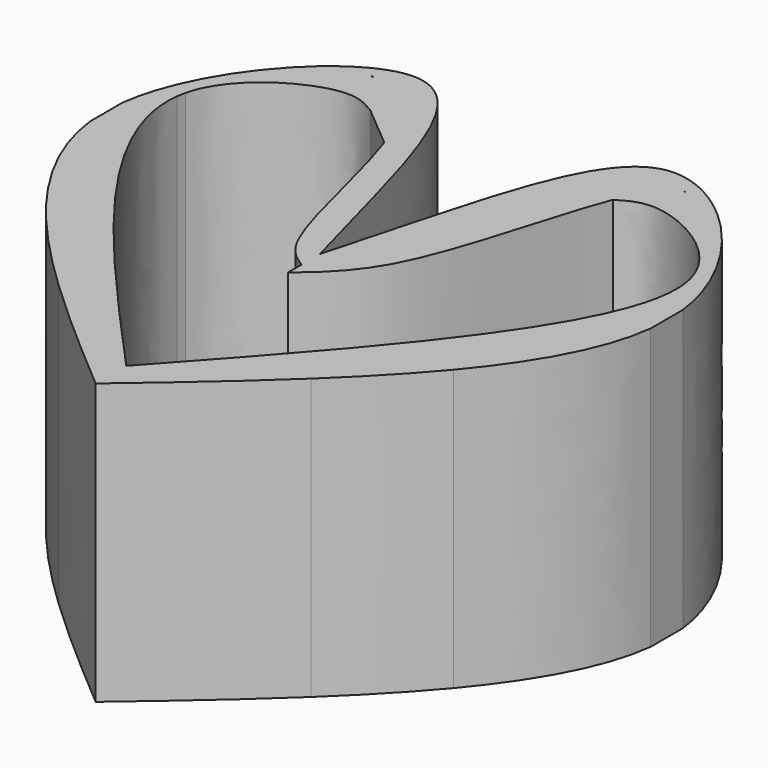
from build123d import *

# Parameters (mm, degrees)
F1_DEPTH = 9
F2_DEPTH = 9


with BuildPart() as f1:
    # F0 (on Top) → F1 (new body)
    with BuildSketch(Plane.XY):
        with BuildLine():
            Line((0, -0.7413188443), (0, 0))
            add(Edge.make_bspline(
                [(0, 0), (-1.3695573068, 4.8905538115), (-2.0943165887, 8.9170896379), (-4.1255794242, 9)],
                knots=[0, 0, 0, 0, 0.3214605719, 0.3214605719, 0.3214605719, 0.3214605719], degree=3))
            Line((-4.1255794242, 9), (-4.2564818249, 9))
            add(Edge.make_bspline(
                [(-4.2564818249, 9), (-6.0240025483, 8.9302818998), (-8.6524833172, 6.0954684063), (-9, 3.3264504746)],
                knots=[0.3282756179, 0.3282756179, 0.3282756179, 0.3282756179, 0.6008737875, 0.6008737875, 0.6008737875, 0.6008737875], degree=3))
            Line((-9, 3.3264504746), (-9, 2.0254198861))
            add(Edge.make_bspline(
                [(-9, 2.0254198861), (-8.8027461578, 0.4124014883), (-7.8936230463, -1.1881125431), (-6.5381361873, -2.8137259055)],
                knots=[0.643703554, 0.643703554, 0.643703554, 0.643703554, 0.8034248169, 0.8034248169, 0.8034248169, 0.8034248169], degree=3))
            add(Edge.make_bspline(
                [(-7.0166951045, 7.2174789384), (-7.8491774617, 6.3542855977), (-9.3849521871, 3.9558156461), (-8.6108826872, 0.0318026512), (-6.9725173385, -2.272586495), (-6.5381361873, -2.8137259055)],
                knots=[0.4449683799, 0.4449683799, 0.4449683799, 0.4449683799, 0.5659455054, 0.7097029057, 0.7555145045, 0.7555145045, 0.7555145045, 0.7555145045], degree=3))
            add(Edge.make_bspline(
                [(-5.09737432, 8.3675803617), (-5.6442828481, 8.4181907516), (-6.369925564, 7.8881083584), (-7.0166951045, 7.2174789384)],
                knots=[0.3509792171, 0.3509792171, 0.3509792171, 0.3509792171, 0.4449683799, 0.4449683799, 0.4449683799, 0.4449683799], degree=3))
            add(Edge.make_bspline(
                [(-4.9200605163, 8.3289773014), (-4.9770953319, 8.3489564565), (-5.0361135483, 8.3619113487), (-5.09737432, 8.3675803617)],
                knots=[0.340451225, 0.340451225, 0.340451225, 0.340451225, 0.3509792171, 0.3509792171, 0.3509792171, 0.3509792171], degree=3))
            add(Edge.make_bspline(
                [(-4.9200605163, 8.3289773014), (-4.4286259103, 8.2194748549), (-3.4589288417, 7.9403428532), (-2.8035900144, 6.5506876616), (-2.5205168272, 5.7354818302)],
                knots=[0.0219652467, 0.0219652467, 0.0219652467, 0.0219652467, 0.2048477067, 0.3890772859, 0.3890772859, 0.3890772859, 0.3890772859], degree=3))
            add(Edge.make_bspline(
                [(-2.5205168272, 5.7354818302), (-2.3111984159, 5.1326780419), (-1.7039003011, 2.9337634373), (-1.0482096873, -0.0435395693), (-0.2666692877, -0.5638009877), (0, -0.7413188443)],
                knots=[0.3890772859, 0.3890772859, 0.3890772859, 0.3890772859, 0.5253058113, 0.8380297251, 1, 1, 1, 1], degree=3))
        make_face()
        with BuildLine():
            add(Edge.make_bspline(
                [(-3.8956142962, 6.891802419), (-3.4381051858, 6.5060647515), (-2.9780259376, 6.1212194977), (-2.5205168272, 5.7354818302)],
                knots=[0, 0, 0, 0, 1.796655324, 1.796655324, 1.796655324, 1.796655324], degree=3))
            add(Edge.make_bspline(
                [(-4.9200605163, 8.3289773014), (-4.4286259103, 8.2194748549), (-3.4589288417, 7.9403428532), (-2.8035900144, 6.5506876616), (-2.5205168272, 5.7354818302)],
                knots=[0.0219652467, 0.0219652467, 0.0219652467, 0.0219652467, 0.2048477067, 0.3890772859, 0.3890772859, 0.3890772859, 0.3890772859], degree=3))
            add(Edge.make_bspline(
                [(-3.8956142962, 6.891802419), (-4.1987079785, 7.6723908012), (-4.5074935852, 8.1844561238), (-4.9200605163, 8.3289773014)],
                knots=[0.2642959622, 0.2642959622, 0.2642959622, 0.2642959622, 0.340451225, 0.340451225, 0.340451225, 0.340451225], degree=3))
        make_face()
        with BuildLine():
            add(Edge.make_bspline(
                [(-3.8956142962, 6.891802419), (-4.2213452753, 7.0869586014), (-5.1237543979, 7.6276218222), (-7.7497584624, 6.1743324677), (-8.0986041576, 4.7228783369)],
                knots=[0, 0, 0, 0, 0.1605538932, 0.4448005452, 0.4448005452, 0.4448005452, 0.4448005452], degree=3))
            add(Edge.make_bspline(
                [(-3.8956142962, 6.891802419), (-4.1987079785, 7.6723908012), (-4.5074935852, 8.1844561238), (-4.9200605163, 8.3289773014)],
                knots=[0.2642959622, 0.2642959622, 0.2642959622, 0.2642959622, 0.340451225, 0.340451225, 0.340451225, 0.340451225], degree=3))
            add(Edge.make_bspline(
                [(-5.09737432, 8.3675803617), (-5.0382294946, 8.3548547711), (-4.9790846696, 8.3421291819), (-4.9200605163, 8.3289773014)],
                knots=[0, 0, 0, 0, 0.0219652467, 0.0219652467, 0.0219652467, 0.0219652467], degree=3))
            add(Edge.make_bspline(
                [(-5.09737432, 8.3675803617), (-5.6442828481, 8.4181907516), (-6.369925564, 7.8881083584), (-7.0166951045, 7.2174789384)],
                knots=[0.3509792171, 0.3509792171, 0.3509792171, 0.3509792171, 0.4449683799, 0.4449683799, 0.4449683799, 0.4449683799], degree=3))
            add(Edge.make_bspline(
                [(-7.0166951045, 7.2174789384), (-7.4551353354, 6.468842273), (-7.8935756458, 5.7202055859), (-8.0986041576, 4.7228783369)],
                knots=[0, 0, 0, 0, 0.2568105942, 0.2568105942, 0.2568105942, 0.2568105942], degree=3))
        make_face()
        with BuildLine():
            add(Edge.make_bspline(
                [(-6.5381361873, -2.8137259055), (-5.8199444715, -3.6750415592), (-4.976444676, -4.5434033696), (-4.0471287706, -5.424404607)],
                knots=[0.8034248169, 0.8034248169, 0.8034248169, 0.8034248169, 0.8880515967, 0.8880515967, 0.8880515967, 0.8880515967], degree=3))
            add(Edge.make_bspline(
                [(-8.1480962796, 4.4487735667), (-8.3487195408, 3.1674182287), (-7.9933424316, -0.4652337496), (-5.465399807, -3.6634353226), (-4.0471287706, -5.424404607)],
                knots=[0.2798373043, 0.2798373043, 0.2798373043, 0.2798373043, 0.5962275969, 0.9861211234, 0.9861211234, 0.9861211234, 0.9861211234], degree=3))
            add(Edge.make_bspline(
                [(-8.0986041689, 4.7228782896), (-8.1200921294, 4.6334725946), (-8.136536481, 4.5420835041), (-8.1480962796, 4.4487735667)],
                knots=[0.4448005483, 0.4448005483, 0.4448005483, 0.4448005483, 0.4623093822, 0.4623093822, 0.4623093822, 0.4623093822], degree=3))
            add(Edge.make_bspline(
                [(-7.0166951045, 7.2174789384), (-7.4551353354, 6.468842273), (-7.8935756458, 5.7202055859), (-8.0986041576, 4.7228783369)],
                knots=[0, 0, 0, 0, 0.2568105942, 0.2568105942, 0.2568105942, 0.2568105942], degree=3))
            add(Edge.make_bspline(
                [(-7.0166951045, 7.2174789384), (-7.8491774617, 6.3542855977), (-9.3849521871, 3.9558156461), (-8.6108826872, 0.0318026512), (-6.9725173385, -2.272586495), (-6.5381361873, -2.8137259055)],
                knots=[0.4449683799, 0.4449683799, 0.4449683799, 0.4449683799, 0.5659455054, 0.7097029057, 0.7555145045, 0.7555145045, 0.7555145045, 0.7555145045], degree=3))
        make_face()
        with BuildLine():
            add(Edge.make_bspline(
                [(-4.0471287706, -5.424404607), (-2.8177846774, -6.5898357171), (-1.4382685717, -7.7773849141), (0, -9)],
                knots=[0.8880515967, 0.8880515967, 0.8880515967, 0.8880515967, 1, 1, 1, 1], degree=3))
            Line((0, -9), (0, -7.7708214521))
            add(Edge.make_bspline(
                [(-8.1480962796, 4.4487735667), (-8.503093949, 1.5832556149), (-4.2515467883, -3.0937826707), (0, -7.7708214521)],
                knots=[0.4623093822, 0.4623093822, 0.4623093822, 0.4623093822, 1, 1, 1, 1], degree=3))
            add(Edge.make_bspline(
                [(-8.1480962796, 4.4487735667), (-8.3487195408, 3.1674182287), (-7.9933424316, -0.4652337496), (-5.465399807, -3.6634353226), (-4.0471287706, -5.424404607)],
                knots=[0.2798373043, 0.2798373043, 0.2798373043, 0.2798373043, 0.5962275969, 0.9861211234, 0.9861211234, 0.9861211234, 0.9861211234], degree=3))
        make_face()
    extrude(amount=F1_DEPTH)

    # F0 (on Top) → F2 (join)
    with BuildSketch(Plane.XY):
        with BuildLine():
            add(Edge.make_bspline(
                [(4.2564818249, 9), (6.0240025483, 8.9302818998), (8.6524833172, 6.0954684063), (9, 3.3264504746)],
                knots=[0.3282756179, 0.3282756179, 0.3282756179, 0.3282756179, 0.6008737875, 0.6008737875, 0.6008737875, 0.6008737875], degree=3))
            Line((4.2564818249, 9), (4.1255794242, 9))
            add(Edge.make_bspline(
                [(0, 0), (1.3695573068, 4.8905538115), (2.0943165887, 8.9170896379), (4.1255794242, 9)],
                knots=[0, 0, 0, 0, 0.3214605719, 0.3214605719, 0.3214605719, 0.3214605719], degree=3))
            Line((0, 0), (0, -0.7413188443))
            add(Edge.make_bspline(
                [(2.5205168272, 5.7354818302), (2.3111984159, 5.1326780419), (1.7039003011, 2.9337634373), (1.0482096873, -0.0435395693), (0.2666692877, -0.5638009877), (0, -0.7413188443)],
                knots=[0.3890772859, 0.3890772859, 0.3890772859, 0.3890772859, 0.5253058113, 0.8380297251, 1, 1, 1, 1], degree=3))
            add(Edge.make_bspline(
                [(4.9200605163, 8.3289773014), (4.4286259103, 8.2194748549), (3.4589288417, 7.9403428532), (2.8035900144, 6.5506876616), (2.5205168272, 5.7354818302)],
                knots=[0.0219652467, 0.0219652467, 0.0219652467, 0.0219652467, 0.2048477067, 0.3890772859, 0.3890772859, 0.3890772859, 0.3890772859], degree=3))
            add(Edge.make_bspline(
                [(4.9200605163, 8.3289773014), (4.9770953319, 8.3489564565), (5.0361135483, 8.3619113487), (5.09737432, 8.3675803617)],
                knots=[0.340451225, 0.340451225, 0.340451225, 0.340451225, 0.3509792171, 0.3509792171, 0.3509792171, 0.3509792171], degree=3))
            add(Edge.make_bspline(
                [(5.09737432, 8.3675803617), (5.6442828481, 8.4181907516), (6.369925564, 7.8881083584), (7.0166951045, 7.2174789384)],
                knots=[0.3509792171, 0.3509792171, 0.3509792171, 0.3509792171, 0.4449683799, 0.4449683799, 0.4449683799, 0.4449683799], degree=3))
            add(Edge.make_bspline(
                [(7.0166951045, 7.2174789384), (7.8491774617, 6.3542855977), (9.3849521871, 3.9558156461), (8.6108826872, 0.0318026512), (6.9725173385, -2.272586495), (6.5381361873, -2.8137259055)],
                knots=[0.4449683799, 0.4449683799, 0.4449683799, 0.4449683799, 0.5659455054, 0.7097029057, 0.7555145045, 0.7555145045, 0.7555145045, 0.7555145045], degree=3))
            add(Edge.make_bspline(
                [(9, 2.0254198861), (8.8027461578, 0.4124014883), (7.8936230463, -1.1881125431), (6.5381361873, -2.8137259055)],
                knots=[0.643703554, 0.643703554, 0.643703554, 0.643703554, 0.8034248169, 0.8034248169, 0.8034248169, 0.8034248169], degree=3))
            Line((9, 2.0254198861), (9, 3.3264504746))
        make_face()
        with BuildLine():
            add(Edge.make_bspline(
                [(2.5205168272, 5.7354818302), (2.3111984159, 5.1326780419), (1.7039003011, 2.9337634373), (1.0482096873, -0.0435395693), (0.2666692877, -0.5638009877), (0, -0.7413188443)],
                knots=[0.3890772859, 0.3890772859, 0.3890772859, 0.3890772859, 0.5253058113, 0.8380297251, 1, 1, 1, 1], degree=3))
            Line((0, -0.7413188443), (0, -1.2867490295))
            add(Edge.make_bspline(
                [(0, -1.2867490295), (0.6447495044, -0.7413188443), (2.2543017403, 0.6202928221), (3.2650913115, 5.2679516253), (3.8956142962, 6.891802419)],
                knots=[0, 0, 0, 0, 0.105870873, 0.2642959622, 0.2642959622, 0.2642959622, 0.2642959622], degree=3))
            add(Edge.make_bspline(
                [(3.8956142962, 6.891802419), (3.4381051858, 6.5060647515), (2.9780259376, 6.1212194977), (2.5205168272, 5.7354818302)],
                knots=[0, 0, 0, 0, 1.796655324, 1.796655324, 1.796655324, 1.796655324], degree=3))
        make_face()
        with BuildLine():
            add(Edge.make_bspline(
                [(6.5381361873, -2.8137259055), (5.8199444715, -3.6750415592), (4.976444676, -4.5434033696), (4.0471287706, -5.424404607)],
                knots=[0.8034248169, 0.8034248169, 0.8034248169, 0.8034248169, 0.8880515967, 0.8880515967, 0.8880515967, 0.8880515967], degree=3))
            add(Edge.make_bspline(
                [(7.0166951045, 7.2174789384), (7.8491774617, 6.3542855977), (9.3849521871, 3.9558156461), (8.6108826872, 0.0318026512), (6.9725173385, -2.272586495), (6.5381361873, -2.8137259055)],
                knots=[0.4449683799, 0.4449683799, 0.4449683799, 0.4449683799, 0.5659455054, 0.7097029057, 0.7555145045, 0.7555145045, 0.7555145045, 0.7555145045], degree=3))
            add(Edge.make_bspline(
                [(7.0166951045, 7.2174789384), (7.4551353354, 6.468842273), (7.8935756458, 5.7202055859), (8.0986041576, 4.7228783369)],
                knots=[0, 0, 0, 0, 0.2568105942, 0.2568105942, 0.2568105942, 0.2568105942], degree=3))
            add(Edge.make_bspline(
                [(8.0986041689, 4.7228782896), (8.1200921294, 4.6334725946), (8.136536481, 4.5420835041), (8.1480962796, 4.4487735667)],
                knots=[0.4448005483, 0.4448005483, 0.4448005483, 0.4448005483, 0.4623093822, 0.4623093822, 0.4623093822, 0.4623093822], degree=3))
            add(Edge.make_bspline(
                [(8.1480962796, 4.4487735667), (8.3487195408, 3.1674182287), (7.9933424316, -0.4652337496), (5.465399807, -3.6634353226), (4.0471287706, -5.424404607)],
                knots=[0.2798373043, 0.2798373043, 0.2798373043, 0.2798373043, 0.5962275969, 0.9861211234, 0.9861211234, 0.9861211234, 0.9861211234], degree=3))
        make_face()
        with BuildLine():
            add(Edge.make_bspline(
                [(4.0471287706, -5.424404607), (2.8177846774, -6.5898357171), (1.4382685717, -7.7773849141), (0, -9)],
                knots=[0.8880515967, 0.8880515967, 0.8880515967, 0.8880515967, 1, 1, 1, 1], degree=3))
            add(Edge.make_bspline(
                [(8.1480962796, 4.4487735667), (8.3487195408, 3.1674182287), (7.9933424316, -0.4652337496), (5.465399807, -3.6634353226), (4.0471287706, -5.424404607)],
                knots=[0.2798373043, 0.2798373043, 0.2798373043, 0.2798373043, 0.5962275969, 0.9861211234, 0.9861211234, 0.9861211234, 0.9861211234], degree=3))
            add(Edge.make_bspline(
                [(8.1480962796, 4.4487735667), (8.503093949, 1.5832556149), (4.2515467883, -3.0937826707), (0, -7.7708214521)],
                knots=[0.4623093822, 0.4623093822, 0.4623093822, 0.4623093822, 1, 1, 1, 1], degree=3))
            Line((0, -7.7708214521), (0, -9))
        make_face()
        with BuildLine():
            add(Edge.make_bspline(
                [(4.9200605163, 8.3289773014), (4.4286259103, 8.2194748549), (3.4589288417, 7.9403428532), (2.8035900144, 6.5506876616), (2.5205168272, 5.7354818302)],
                knots=[0.0219652467, 0.0219652467, 0.0219652467, 0.0219652467, 0.2048477067, 0.3890772859, 0.3890772859, 0.3890772859, 0.3890772859], degree=3))
            add(Edge.make_bspline(
                [(3.8956142962, 6.891802419), (3.4381051858, 6.5060647515), (2.9780259376, 6.1212194977), (2.5205168272, 5.7354818302)],
                knots=[0, 0, 0, 0, 1.796655324, 1.796655324, 1.796655324, 1.796655324], degree=3))
            add(Edge.make_bspline(
                [(3.8956142962, 6.891802419), (4.1987079785, 7.6723908012), (4.5074935852, 8.1844561238), (4.9200605163, 8.3289773014)],
                knots=[0.2642959622, 0.2642959622, 0.2642959622, 0.2642959622, 0.340451225, 0.340451225, 0.340451225, 0.340451225], degree=3))
        make_face()
        with BuildLine():
            add(Edge.make_bspline(
                [(7.0166951045, 7.2174789384), (7.4551353354, 6.468842273), (7.8935756458, 5.7202055859), (8.0986041576, 4.7228783369)],
                knots=[0, 0, 0, 0, 0.2568105942, 0.2568105942, 0.2568105942, 0.2568105942], degree=3))
            add(Edge.make_bspline(
                [(5.09737432, 8.3675803617), (5.6442828481, 8.4181907516), (6.369925564, 7.8881083584), (7.0166951045, 7.2174789384)],
                knots=[0.3509792171, 0.3509792171, 0.3509792171, 0.3509792171, 0.4449683799, 0.4449683799, 0.4449683799, 0.4449683799], degree=3))
            add(Edge.make_bspline(
                [(5.09737432, 8.3675803617), (5.0382294946, 8.3548547711), (4.9790846696, 8.3421291819), (4.9200605163, 8.3289773014)],
                knots=[0, 0, 0, 0, 0.0219652467, 0.0219652467, 0.0219652467, 0.0219652467], degree=3))
            add(Edge.make_bspline(
                [(3.8956142962, 6.891802419), (4.1987079785, 7.6723908012), (4.5074935852, 8.1844561238), (4.9200605163, 8.3289773014)],
                knots=[0.2642959622, 0.2642959622, 0.2642959622, 0.2642959622, 0.340451225, 0.340451225, 0.340451225, 0.340451225], degree=3))
            add(Edge.make_bspline(
                [(3.8956142962, 6.891802419), (4.2213452753, 7.0869586014), (5.1237543979, 7.6276218222), (7.7497584624, 6.1743324677), (8.0986041576, 4.7228783369)],
                knots=[0, 0, 0, 0, 0.1605538932, 0.4448005452, 0.4448005452, 0.4448005452, 0.4448005452], degree=3))
        make_face()
    extrude(amount=F2_DEPTH)


solid = f1.part
